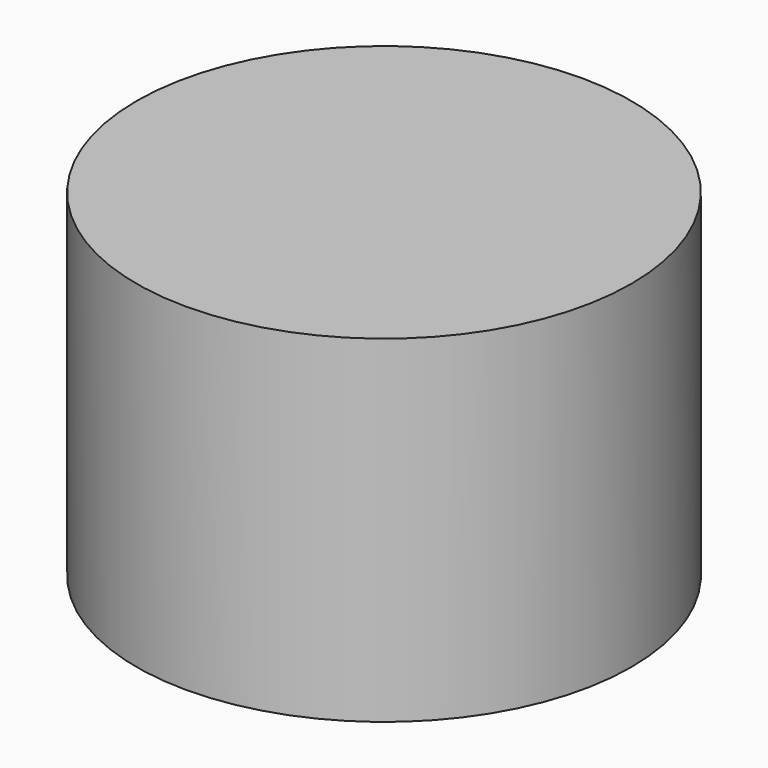
from build123d import *

# Parameters (mm, degrees)
BOX_W          = 13.37
BOX_H          = 13.37
BOX_DEPTH      = 14
CYLINDER_R     = 11
CYLINDER_DEPTH = 15


with BuildPart() as cube:
    # Box → Box (new body)
    with BuildSketch(Plane(origin=(-6.68, -6.68, 0), x_dir=(1, 0, 0), z_dir=(0, 0, 1))):
        with Locations((6.685, 6.685)):
            Rectangle(BOX_W, BOX_H)
    extrude(amount=BOX_DEPTH)


with BuildPart() as cut:
    # Cylinder → Cylinder (new body)
    with BuildSketch(Plane.XY):
        Circle(CYLINDER_R)
    extrude(amount=CYLINDER_DEPTH)

    # Cut: cut Cube
    add(cube.part, mode=Mode.SUBTRACT)


solid = cut.part
